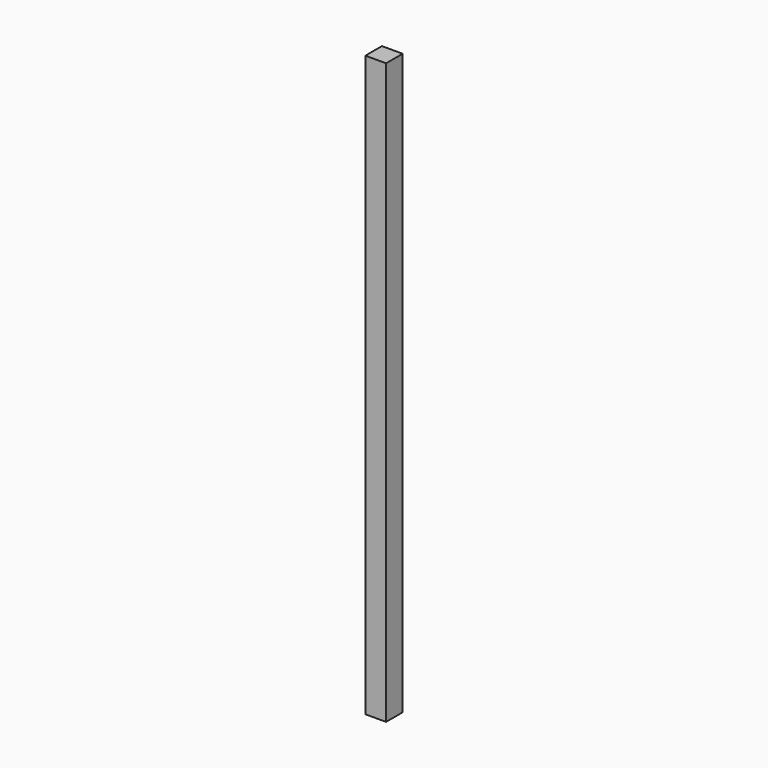
from build123d import *

# Parameters (mm, degrees)
BOX_W     = 50.8
BOX_H     = 50.8
BOX_DEPTH = 1422.4


with BuildPart() as part:
    # Box → Box (new body)
    with BuildSketch(Plane.XY):
        with Locations((25.4, 25.4)):
            Rectangle(BOX_W, BOX_H)
    extrude(amount=BOX_DEPTH)


solid = part.part
